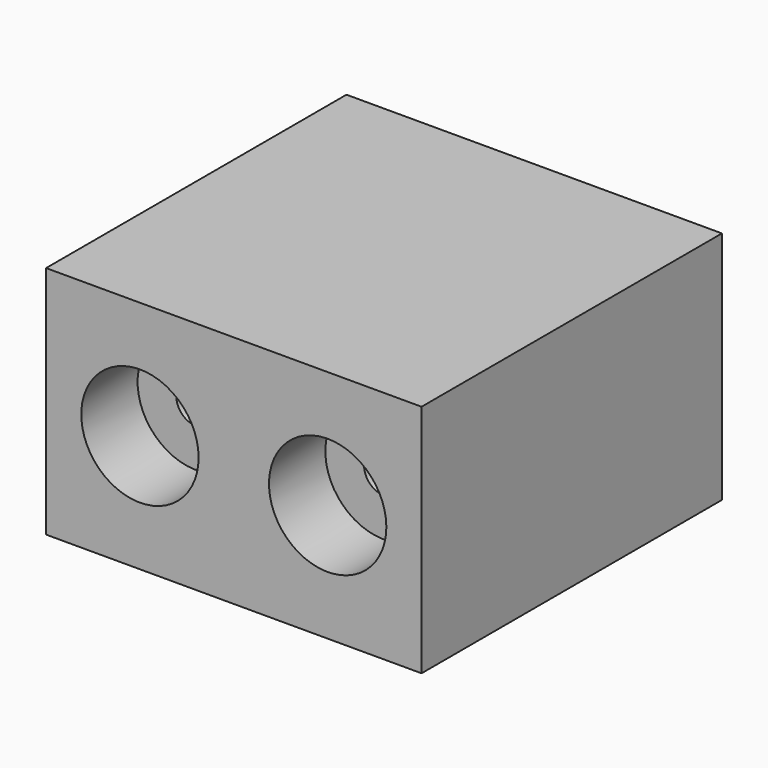
from build123d import *

# Parameters (mm, degrees)
F0_W     = 8
F0_H     = 5
F1_DEPTH = 8
F2_R     = 1.25
F3_DEPTH = 1.5
F4_DEPTH = 1.5
F5_R     = 0.425
F6_DEPTH = 25
F7_DEPTH = 25


with BuildPart() as f1:
    # F0 (on Front) → F1 (new body)
    with BuildSketch(Plane.XZ):
        with Locations((-1.863892, 2.5)):
            Rectangle(F0_W, F0_H)
    extrude(amount=F1_DEPTH)

    # F2 (on face) → F3 (cut)
    with BuildSketch(Plane.XZ.offset(8)):
        with Locations((-3.863892, 2.5)):
            Circle(F2_R)
    extrude(amount=-F3_DEPTH, mode=Mode.SUBTRACT)

    # F2 (on face) → F4 (cut)
    with BuildSketch(Plane.XZ.offset(8)):
        with Locations((0.136108, 2.5)):
            Circle(F2_R)
    extrude(amount=-F4_DEPTH, mode=Mode.SUBTRACT)

    # F5 (on face) → F6 (cut)
    with BuildSketch(Plane.XZ.offset(8)):
        with Locations((0.136108, 2.5)):
            Circle(F5_R)
    extrude(amount=-F6_DEPTH, mode=Mode.SUBTRACT)

    # F5 (on face) → F7 (cut)
    with BuildSketch(Plane.XZ.offset(8)):
        with Locations((-3.863892, 2.5)):
            Circle(F5_R)
        with Locations((0.136108, 2.5)):
            Circle(F5_R)
    extrude(amount=-F7_DEPTH, mode=Mode.SUBTRACT)


solid = f1.part
